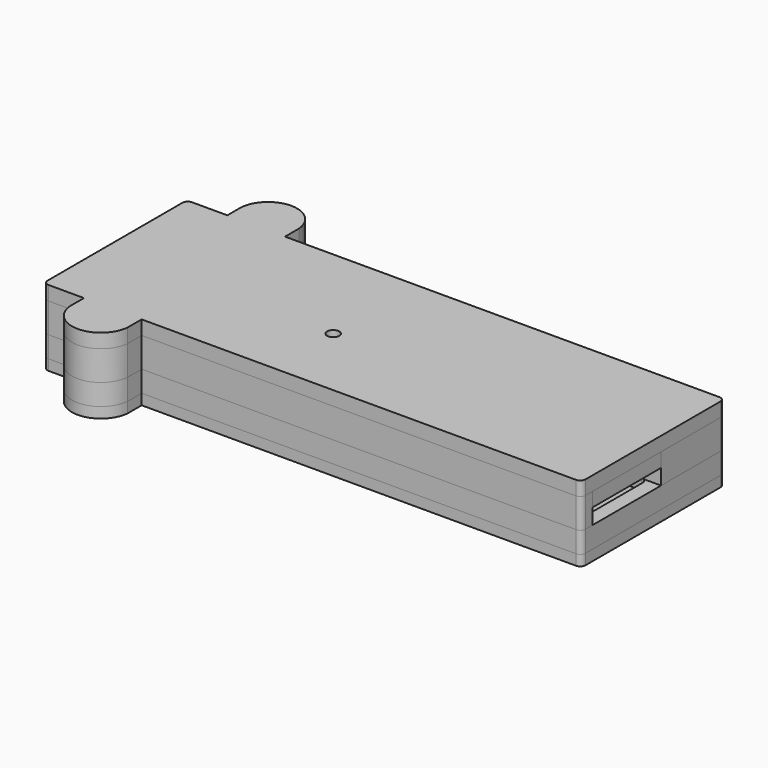
from build123d import *

# Parameters (mm, degrees)
SKETCH005_R      = 2
EXTRUDE_DEPTH    = 1.5
SKETCH004_R      = 1.2
EXTRUDE001_DEPTH = 3
EXTRUDE002_DEPTH = 1.5
SKETCH007_R      = 1.65
EXTRUDE003_DEPTH = 4.2
SKETCH008_R      = 0.86
EXTRUDE005_DEPTH = 2
SKETCH009_W      = 8.85
SKETCH009_H      = 12.1
SKETCH009_H_2    = 17.6
EXTRUDE006_DEPTH = 2
SKETCH010_W      = 8.1
SKETCH010_H      = 2
EXTRUDE007_DEPTH = 1.2


with BuildPart() as extrude_body:
    # Sketch005 → Extrude (new body)
    with BuildSketch(Plane(origin=(-238.95, 191.7, 0), x_dir=(1, 0, 0), z_dir=(0, 0, 1))):
        with BuildLine():
            Line((-2, 1.25), (-2, -22.6))
            ThreePointArc((-2, -22.6), (-1.78033, -23.13033), (-1.25, -23.35))
            Line((3.75, -23.35), (-1.25, -23.35))
            Line((3.75, -25.85), (3.75, -23.35))
            ThreePointArc((3.75, -25.85), (7.830441, -29.55), (11.910882, -25.85))
            Line((11.910882, -25.85), (11.910882, -23.35))
            Line((11.910882, -23.35), (73.35, -23.35))
            ThreePointArc((73.35, -23.35), (73.88033, -23.13033), (74.1, -22.6))
            Line((74.1, -22.6), (74.1, 1.25))
            ThreePointArc((74.1, 1.25), (73.88033, 1.78033), (73.35, 2))
            Line((11.910882, 2), (73.35, 2))
            Line((11.910882, 2), (11.910882, 4.5))
            ThreePointArc((11.910882, 4.5), (7.830441, 8.2), (3.75, 4.5))
            Line((3.75, 2), (3.75, 4.5))
            Line((-1.25, 2), (3.75, 2))
            ThreePointArc((-1.25, 2), (-1.78033, 1.78033), (-2, 1.25))
        make_face()
        with Locations((70.2, -3.8)):
            Circle(SKETCH005_R, mode=Mode.SUBTRACT)
        with Locations((7.830441, -25.45)):
            Circle(SKETCH005_R, mode=Mode.SUBTRACT)
        with Locations((7.830441, 4.1)):
            Circle(SKETCH005_R, mode=Mode.SUBTRACT)
    extrude(amount=-EXTRUDE_DEPTH)


with BuildPart() as extrude_body_1:
    # Extrude placement: moved
    add(extrude_body.part.moved(Location((0, 0, 1.2))))


with BuildPart() as extrude001:
    # Sketch004 → Extrude001 (new body)
    with BuildSketch(Plane(origin=(-238.95, 191.7, 0), x_dir=(1, 0, 0), z_dir=(0, 0, 1))):
        with BuildLine():
            Line((-2, 1.25), (-2, -22.6))
            ThreePointArc((-2, -22.6), (-1.78033, -23.13033), (-1.25, -23.35))
            Line((3.75, -23.35), (-1.25, -23.35))
            Line((3.75, -23.35), (3.75, -25.85))
            ThreePointArc((3.75, -25.85), (7.830441, -29.55), (11.910882, -25.85))
            Line((11.910882, -23.35), (11.910882, -25.85))
            Line((11.910882, -23.35), (73.35, -23.35))
            ThreePointArc((73.35, -23.35), (73.88033, -23.13033), (74.1, -22.6))
            Line((74.1, -22.6), (74.1, 1.25))
            ThreePointArc((74.1, 1.25), (73.88033, 1.78033), (73.35, 2))
            Line((11.910882, 2), (73.35, 2))
            Line((11.910882, 2), (11.910882, 4.5))
            ThreePointArc((11.910882, 4.5), (7.830441, 8.2), (3.75, 4.5))
            Line((3.75, 2), (3.75, 4.5))
            Line((-1.25, 2), (3.75, 2))
            ThreePointArc((-1.25, 2), (-1.78033, 1.78033), (-2, 1.25))
        make_face()
        with Locations((70.2, -3.8)):
            Circle(SKETCH004_R, mode=Mode.SUBTRACT)
        with Locations((7.830441, -25.45)):
            Circle(SKETCH004_R, mode=Mode.SUBTRACT)
        with Locations((7.830441, 4.1)):
            Circle(SKETCH004_R, mode=Mode.SUBTRACT)
        with BuildLine():
            Line((65.6, 0), (0.75, 0))
            ThreePointArc((0.75, 0), (0.21967, -0.21967), (0, -0.75))
            Line((0, -0.75), (0, -20.6))
            ThreePointArc((0, -20.6), (0.21967, -21.13033), (0.75, -21.35))
            Line((0.75, -21.35), (71.35, -21.35))
            ThreePointArc((71.35, -21.35), (71.88033, -21.13033), (72.1, -20.6))
            Line((72.1, -20.6), (72.1, -10))
            ThreePointArc((72.1, -10), (71.88033, -9.46967), (71.35, -9.25))
            Line((71.35, -9.25), (67.1, -9.25))
            ThreePointArc((66.35, -8.5), (66.56967, -9.03033), (67.1, -9.25))
            Line((66.35, -8.5), (66.35, -0.75))
            ThreePointArc((66.35, -0.75), (66.13033, -0.21967), (65.6, 0))
        make_face(mode=Mode.SUBTRACT)
    extrude(amount=EXTRUDE001_DEPTH)


with BuildPart() as extrude001_1:
    # Extrude001 placement: moved
    add(extrude001.part.moved(Location((0, 0, 1.2))))


with BuildPart() as extrude002:
    # Sketch006 → Extrude002 (new body)
    with BuildSketch(Plane(origin=(-238.95, 191.7, 0), x_dir=(1, 0, 0), z_dir=(0, 0, 1))):
        with BuildLine():
            Line((0, -0.75), (0, -20.6))
            ThreePointArc((0, -20.6), (0.21967, -21.13033), (0.75, -21.35))
            Line((9, -21.349773), (0.75, -21.35))
            Line((9, 0), (9, -21.349773))
            Line((0.75, 0), (9, 0))
            ThreePointArc((0.75, 0), (0.21967, -0.21967), (0, -0.75))
        make_face()
        with BuildLine():
            Line((72.1, -20.598061), (72.1, -9.998061))
            ThreePointArc((72.1, -9.998061), (71.88033, -9.467731), (71.35, -9.248061))
            Line((71.35, -9.248061), (67.1, -9.248061))
            ThreePointArc((66.35, -8.498061), (66.56967, -9.028391), (67.1, -9.248061))
            Line((66.35, -8.498061), (66.35, -0.75))
            ThreePointArc((66.35, -0.75), (66.13033, -0.21967), (65.6, 0))
            Line((62.85, 0), (65.6, 0))
            Line((62.85, -21.348294), (62.85, 0))
            Line((71.35, -21.348061), (62.85, -21.348294))
            ThreePointArc((71.35, -21.348061), (71.88033, -21.128391), (72.1, -20.598061))
        make_face()
        Polygon((24, -21.349361), (49, -21.349361), (45.464466, -17.813827), (27.535534, -17.813827), align=None)
    extrude(amount=EXTRUDE002_DEPTH)


with BuildPart() as extrude002_1:
    # Extrude002 placement: moved
    add(extrude002.part.moved(Location((0, 0, 1.2))))


with BuildPart() as extrude003:
    # Sketch007 → Extrude003 (new body)
    with BuildSketch(Plane(origin=(-238.95, 191.7, 0), x_dir=(1, 0, 0), z_dir=(0, 0, 1))):
        with BuildLine():
            Line((9, -21.35), (9, 0))
            Line((54.25, 0), (9, 0))
            Line((54.25, 2), (54.25, 0))
            Line((54.25, 2), (11.910882, 2))
            Line((11.910882, 4.5), (11.910882, 2))
            ThreePointArc((11.910882, 4.5), (7.830441, 8.2), (3.75, 4.5))
            Line((3.75, 2), (3.75, 4.5))
            Line((-1.25, 2), (3.75, 2))
            ThreePointArc((-1.25, 2), (-1.78033, 1.78033), (-2, 1.25))
            Line((-2, 1.25), (-2, 0))
            Line((6.85, 0), (-2, 0))
            Line((6.85, -17.6), (6.85, 0))
            Line((6.85, -17.6), (-2, -17.6))
            Line((-2, -17.6), (-2, -22.6))
            ThreePointArc((-2, -22.6), (-1.78033, -23.13033), (-1.25, -23.35))
            Line((-1.25, -23.35), (3.75, -23.35))
            Line((3.75, -23.35), (3.75, -25.85))
            ThreePointArc((3.75, -25.85), (7.830441, -29.55), (11.910882, -25.85))
            Line((11.910882, -23.35), (11.910882, -25.85))
            Line((73.35, -23.35), (11.910882, -23.35))
            ThreePointArc((73.35, -23.35), (73.88033, -23.13033), (74.1, -22.6))
            Line((74.1, -21.35), (74.1, -22.6))
            Line((65.25, -21.35), (74.1, -21.35))
            Line((65.25, -21.35), (65.25, -9.25))
            Line((65.25, -9.25), (74.1, -9.25))
            Line((74.1, -9.25), (74.1, 1.25))
            ThreePointArc((74.1, 1.25), (73.88033, 1.78033), (73.35, 2))
            Line((73.35, 2), (62.35, 2))
            Line((62.35, 2), (62.35, 0))
            Line((62.85, 0), (62.35, 0))
            Line((62.85, -21.35), (62.85, 0))
            Line((9, -21.35), (62.85, -21.35))
        make_face()
        with Locations((70.2, -3.8)):
            Circle(SKETCH007_R, mode=Mode.SUBTRACT)
        with Locations((7.830441, 4.1)):
            Circle(SKETCH007_R, mode=Mode.SUBTRACT)
        with Locations((7.830441, -25.45)):
            Circle(SKETCH007_R, mode=Mode.SUBTRACT)
    extrude(amount=EXTRUDE003_DEPTH)


with BuildPart() as extrude003_1:
    # Extrude003 placement: moved
    add(extrude003.part.moved(Location((0, 0, 4.2))))


with BuildPart() as extrude005:
    # Sketch008 → Extrude005 (new body)
    with BuildSketch(Plane(origin=(-238.95, 191.7, 0), x_dir=(1, 0, 0), z_dir=(0, 0, 1))):
        with BuildLine():
            Line((-2, 1.25), (-2, -22.6))
            ThreePointArc((-2, -22.6), (-1.78033, -23.13033), (-1.25, -23.35))
            Line((-1.25, -23.35), (3.75, -23.35))
            Line((3.75, -23.35), (3.75, -25.85))
            ThreePointArc((3.75, -25.85), (7.830441, -29.55), (11.910882, -25.85))
            Line((11.910882, -23.35), (11.910882, -25.85))
            Line((11.910882, -23.35), (73.35, -23.35))
            ThreePointArc((73.35, -23.35), (73.88033, -23.13033), (74.1, -22.6))
            Line((74.1, -22.6), (74.1, 1.25))
            ThreePointArc((74.1, 1.25), (73.88033, 1.78033), (73.35, 2))
            Line((11.910882, 2), (73.35, 2))
            Line((11.910882, 2), (11.910882, 4.5))
            ThreePointArc((11.910882, 4.5), (7.830441, 8.2), (3.75, 4.5))
            Line((3.75, 2), (3.75, 4.5))
            Line((-1.25, 2), (3.75, 2))
            ThreePointArc((-1.25, 2), (-1.78033, 1.78033), (-2, 1.25))
        make_face()
        with Locations((30.565, -12.8)):
            Circle(SKETCH008_R, mode=Mode.SUBTRACT)
    extrude(amount=EXTRUDE005_DEPTH)


with BuildPart() as extrude005_1:
    # Extrude005 placement: moved
    add(extrude005.part.moved(Location((0, 0, 8.4))))


with BuildPart() as extrude006:
    # Sketch009 → Extrude006 (new body)
    with BuildSketch(Plane(origin=(-238.95, 191.7, 0), x_dir=(1, 0, 0), z_dir=(0, 0, 1))):
        with Locations((69.675, -15.3)):
            Rectangle(SKETCH009_W, SKETCH009_H)
        with Locations((2.425, -8.8)):
            Rectangle(SKETCH009_W, SKETCH009_H_2)
    extrude(amount=EXTRUDE006_DEPTH)


with BuildPart() as extrude006_1:
    # Extrude006 placement: moved
    add(extrude006.part.moved(Location((0, 0, 6.4))))


with BuildPart() as extrude007:
    # Sketch010 → Extrude007 (new body)
    with BuildSketch(Plane(origin=(-238.95, 191.7, 0), x_dir=(1, 0, 0), z_dir=(0, 0, 1))):
        with Locations((58.3, 1)):
            Rectangle(SKETCH010_W, SKETCH010_H)
    extrude(amount=EXTRUDE007_DEPTH)


with BuildPart() as extrude007_1:
    # Extrude007 placement: moved
    add(extrude007.part.moved(Location((0, 0, 7.2))))


solid = Compound([extrude_body_1.part, extrude001_1.part, extrude002_1.part, extrude003_1.part, extrude005_1.part, extrude006_1.part, extrude007_1.part])
